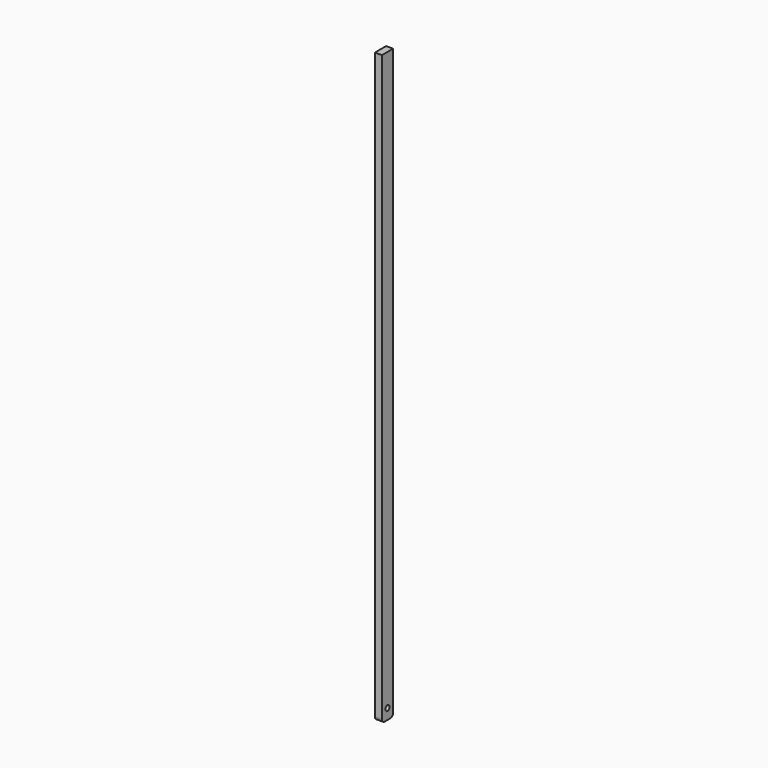
from build123d import *

# Parameters (mm, degrees)
F0_W     = 25.4
F0_H     = 50.8
F1_DEPTH = 2133.6
F2_R     = 12.7
F4_D     = 19.05


with BuildPart() as f1:
    # F0 (on Top) → F1 (new body)
    with BuildSketch(Plane.XY):
        Rectangle(F0_W, F0_H)
    extrude(amount=F1_DEPTH)

    # F2
    f2_edges = [f1.edges().sort_by_distance(p)[0] for p in [
        (0, -25.4, 0),
        (0, 25.4, 0),
    ]]
    fillet(f2_edges, radius=F2_R)

    # F4 (through all)
    with Locations(Plane.YZ.offset(12.7)):
        with Locations((0, 38.1)):
            Hole(F4_D / 2)


solid = f1.part
